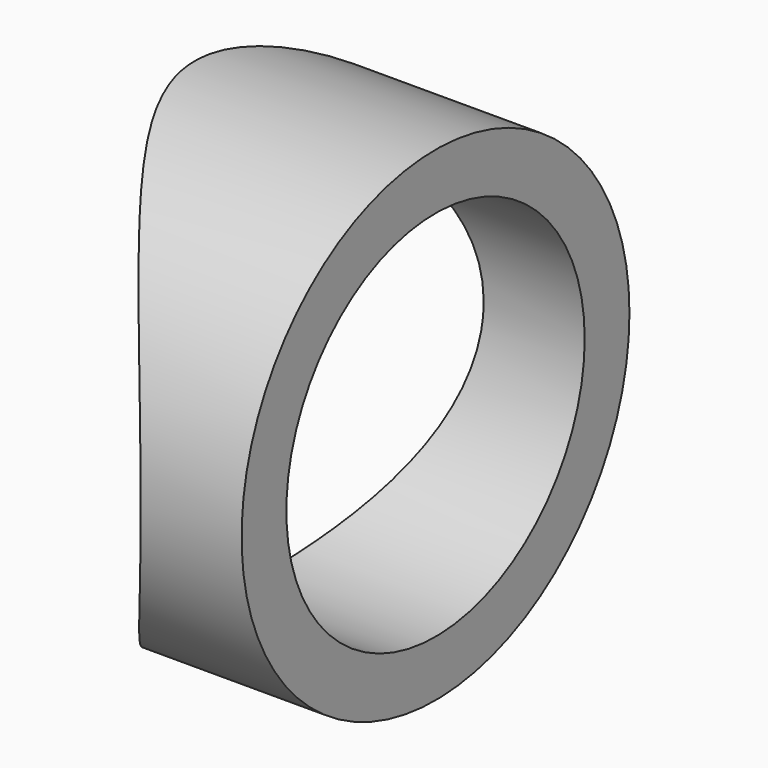
from build123d import *

# Parameters (mm, degrees)
F0_R          = 13
F0_R_2        = 10
F1_DEPTH      = 44.16336
F1_DEPTH_BACK = 30.94207
F3_DEPTH      = 65.10029


with BuildPart() as f1:
    # F0 (on Right) → F1 (new body, two sides)
    with BuildSketch(Plane.YZ) as f1_sk:
        Circle(F0_R)
        Circle(F0_R_2, mode=Mode.SUBTRACT)
    extrude(amount=F1_DEPTH)
    extrude(f1_sk.sketch, amount=-F1_DEPTH_BACK)

    # F2 (on Front) → F3 (cut, symmetric)
    with BuildSketch(Plane.XZ):
        with BuildLine():
            Line((-32.5, -15), (25.470434, -15))
            ThreePointArc((25.470434, -15), (38.745345, 0.239915), (24.93889, 15))
            Line((24.93889, 15), (22.394525, 15))
            Line((22.394525, 15), (-32.5, 15))
            Line((-32.5, 15), (-32.5, -15))
        make_face()
    extrude(amount=F3_DEPTH, both=True, mode=Mode.SUBTRACT)


solid = f1.part
